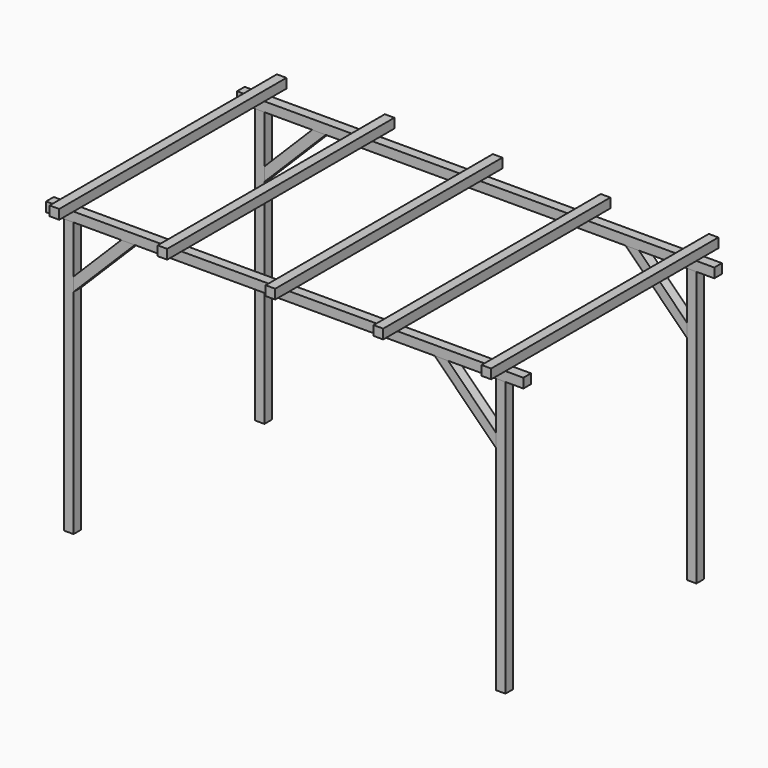
from build123d import *

# Parameters (mm, degrees)
F1_DEPTH  = 40
F2_DEPTH  = 40
F3_DEPTH  = 40
F6_DEPTH  = 40
F9_W      = 80
F9_H      = 2380
F10_DEPTH = 80
F15_DEPTH = 40


with BuildPart() as f1:
    # F0 (on Front) → F1 (new body, symmetric)
    with BuildSketch(Plane.XZ):
        Polygon((-1951.27043259, 1019.225314228), (-2031.27043259, 1019.225314228), (-2031.27043259, -1280.774685772), (-1951.27043259, -1280.774685772), (-1951.27043259, 506.0882292382), (-1951.27043259, 619.225314228), align=None)
    extrude(amount=F1_DEPTH, both=True)


with BuildPart() as f2:
    # F0 (on Front) → F2 (new body, symmetric)
    with BuildSketch(Plane.XZ):
        Polygon((1588.72956741, 619.225314228), (1588.72956741, 506.0882292382), (1588.72956741, -1280.774685772), (1668.72956741, -1280.774685772), (1668.72956741, 1019.225314228), (1588.72956741, 1019.225314228), align=None)
    extrude(amount=F2_DEPTH, both=True)


with BuildPart() as f3:
    # F0 (on Front) → F3 (new body, symmetric)
    with BuildSketch(Plane.XZ):
        Polygon((-2181.27043259, 1019.225314228), (-2031.27043259, 1019.225314228), (-1951.27043259, 1019.225314228), (-1551.27043259, 1019.225314228), (-1438.1333476002, 1019.225314228), (1075.5924824201, 1019.225314228), (1188.72956741, 1019.225314228), (1588.72956741, 1019.225314228), (1668.72956741, 1019.225314228), (1818.72956741, 1019.225314228), (1818.72956741, 1099.225314228), (-2181.27043259, 1099.225314228), align=None)
    extrude(amount=F3_DEPTH, both=True)


with BuildPart() as f4_1:
    # F4: copy of F3
    add(f3.part.moved(Location((0, 2000, 0))))


with BuildPart() as f5_1:
    # F5: copy of F2
    add(f2.part.moved(Location((0, 2000, 0))))


with BuildPart() as f6:
    # F0 (on Front) → F6 (new body, symmetric)
    with BuildSketch(Plane.XZ):
        Polygon((-1551.27043259, 1019.225314228), (-1951.27043259, 619.225314228), (-1951.27043259, 506.0882292382), (-1438.1333476002, 1019.225314228), align=None)
    extrude(amount=F6_DEPTH, both=True)


with BuildPart() as f7_1:
    # F7: copy of F1
    add(f1.part.moved(Location((0, 2000, 0))))


with BuildPart() as f10:
    # F9 (on offset) → F10 (new body)
    with BuildSketch(Plane.XY.offset(1099.225314228)):
        with Locations((-1991.27043259, 1000)):
            Rectangle(F9_W, F9_H)
    extrude(amount=F10_DEPTH)


with BuildPart() as f11_1:
    # F11: copy of F10
    add(f10.part.moved(Location((905, 0, 0))))


with BuildPart() as f12_1:
    # F12: copy of F11_1
    add(f11_1.part.moved(Location((905, 0, 0))))


with BuildPart() as f13_1:
    # F13: copy of F12_1
    add(f12_1.part.moved(Location((905, 0, 0))))


with BuildPart() as f14_1:
    # F14: copy of F10
    add(f10.part.moved(Location((3620, 0, 0))))


with BuildPart() as f15:
    # F0 (on Front) → F15 (new body, symmetric)
    with BuildSketch(Plane.XZ):
        Polygon((1188.72956741, 1019.225314228), (1075.5924824201, 1019.225314228), (1588.72956741, 506.0882292382), (1588.72956741, 619.225314228), align=None)
    extrude(amount=F15_DEPTH, both=True)


with BuildPart() as f16_1:
    # F16: copy of F6
    add(f6.part.moved(Location((0, 2000, 0))))


with BuildPart() as f17_1:
    # F17: copy of F15
    add(f15.part.moved(Location((0, 2000, 0))))


solid = Compound([f1.part, f2.part, f3.part, f4_1.part, f5_1.part, f6.part, f7_1.part, f10.part, f11_1.part, f12_1.part, f13_1.part, f14_1.part, f15.part, f16_1.part, f17_1.part])
